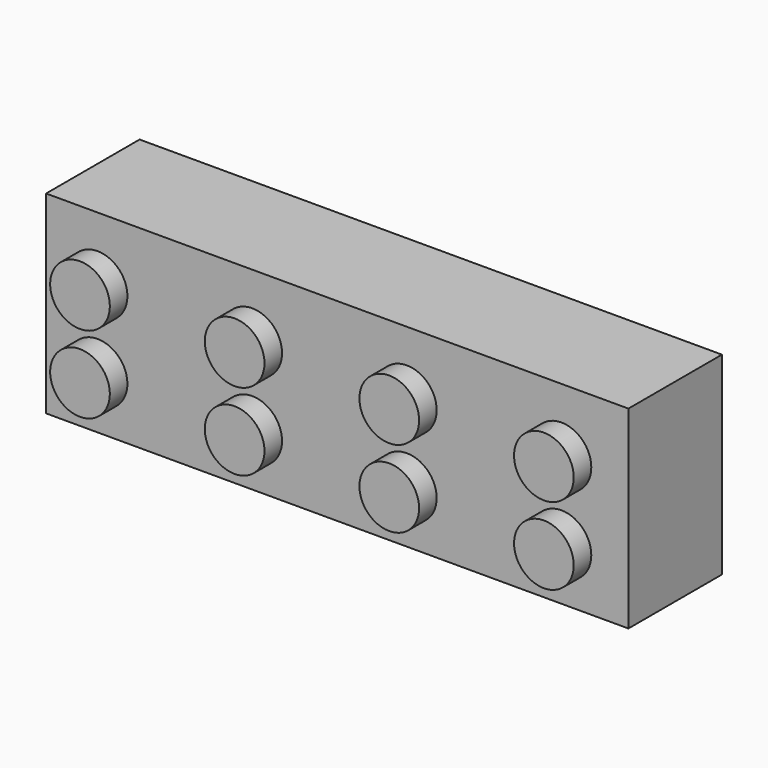
from build123d import *

# Parameters (mm, degrees)
F0_W     = 47.8282
F0_H     = 15.9004
F1_DEPTH = 9.6012
F2_R     = 2.4511
F3_DEPTH = 1.8034


with BuildPart() as f1:
    # F0 (on Front) → F1 (new body)
    with BuildSketch(Plane.XZ):
        with Locations((-23.9141, 7.9502)):
            Rectangle(F0_W, F0_H)
    extrude(amount=F1_DEPTH)

    # F2 (on face) → F3 (join)
    with BuildSketch(Plane.XZ.offset(9.6012)):
        with Locations((-5.4991, 10.659005)):
            Circle(F2_R)
        with Locations((-5.4991, 4.309005)):
            Circle(F2_R)
        with Locations((-18.1991, 10.659005)):
            Circle(F2_R)
        with Locations((-18.1991, 4.309005)):
            Circle(F2_R)
        with Locations((-30.8991, 10.659005)):
            Circle(F2_R)
        with Locations((-30.8991, 4.309005)):
            Circle(F2_R)
        with Locations((-43.5991, 10.659005)):
            Circle(F2_R)
        with Locations((-43.5991, 4.309005)):
            Circle(F2_R)
    extrude(amount=F3_DEPTH)


solid = f1.part
